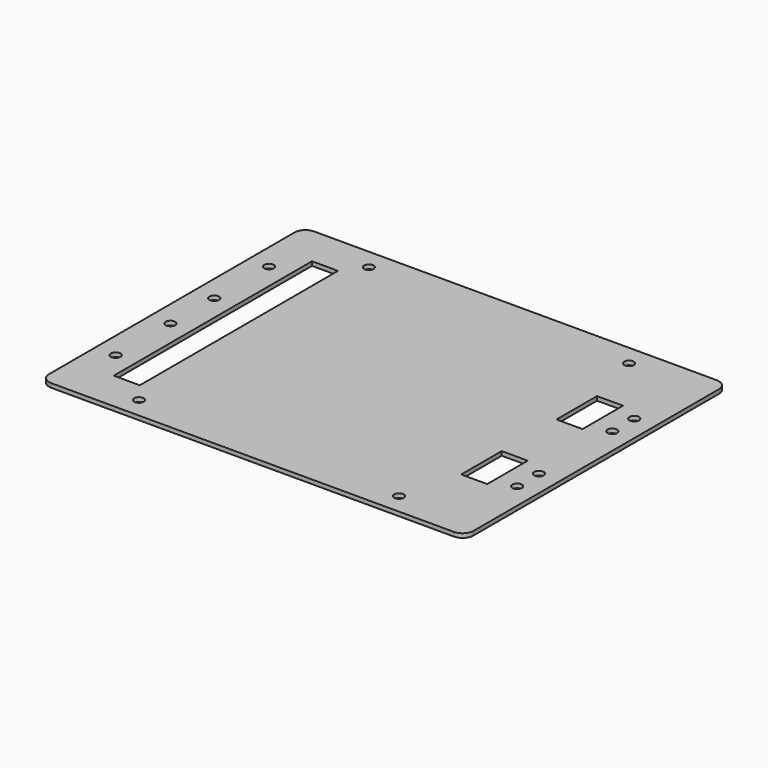
from build123d import *

# Parameters (mm, degrees)
F0_R     = 1.75
F0_W     = 9.5
F0_H     = 90.5
F0_H_2   = 18.5
F1_DEPTH = 1.5


with BuildPart() as f1:
    # F0 (on Top) → F1 (new body)
    with BuildSketch(Plane.XY):
        with BuildLine():
            Line((73.5, 60), (-73.5, 60))
            ThreePointArc((-73.5, 60), (-76.328427, 58.828427), (-77.5, 56))
            Line((-77.5, 56), (-77.5, -56))
            ThreePointArc((-77.5, -56), (-76.328427, -58.828427), (-73.5, -60))
            Line((-73.5, -60), (73.5, -60))
            ThreePointArc((73.5, -60), (76.328427, -58.828427), (77.5, -56))
            Line((77.5, -56), (77.5, 56))
            ThreePointArc((77.5, 56), (76.328427, 58.828427), (73.5, 60))
        make_face()
        with Locations((-47.5, -52.5)):
            Circle(F0_R, mode=Mode.SUBTRACT)
        with Locations((-70, -35)):
            Circle(F0_R, mode=Mode.SUBTRACT)
        with Locations((-70, -10)):
            Circle(F0_R, mode=Mode.SUBTRACT)
        with Locations((-57.75, 0)):
            Rectangle(F0_W, F0_H, mode=Mode.SUBTRACT)
        with Locations((47.5, -52.5)):
            Circle(F0_R, mode=Mode.SUBTRACT)
        with Locations((57.75, -21.75)):
            Rectangle(F0_W, F0_H_2, mode=Mode.SUBTRACT)
        with Locations((70, -26.75)):
            Circle(F0_R, mode=Mode.SUBTRACT)
        with Locations((70, -16.75)):
            Circle(F0_R, mode=Mode.SUBTRACT)
        with Locations((-70, 10)):
            Circle(F0_R, mode=Mode.SUBTRACT)
        with Locations((-70, 35)):
            Circle(F0_R, mode=Mode.SUBTRACT)
        with Locations((-47.5, 52.5)):
            Circle(F0_R, mode=Mode.SUBTRACT)
        with Locations((57.75, 21.75)):
            Rectangle(F0_W, F0_H_2, mode=Mode.SUBTRACT)
        with Locations((70, 16.75)):
            Circle(F0_R, mode=Mode.SUBTRACT)
        with Locations((70, 26.75)):
            Circle(F0_R, mode=Mode.SUBTRACT)
        with Locations((47.5, 52.5)):
            Circle(F0_R, mode=Mode.SUBTRACT)
    extrude(amount=F1_DEPTH)


solid = f1.part
